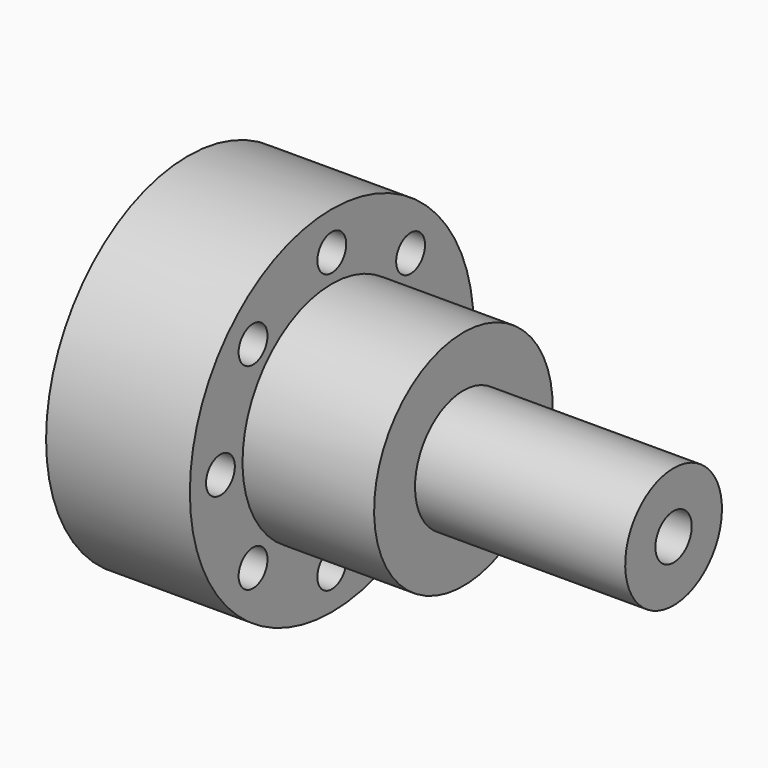
from build123d import *

# Parameters (mm, degrees)
F2_R     = 20.746813
F3_DEPTH = 7.62
F4_R     = 5.02647
F5_DEPTH = 107.404763
F6_R     = 3.988802
F7_DEPTH = 107.404763


with BuildPart() as f1:
    # F0 (on Front) → F1 (revolve)
    with BuildSketch(Plane.XZ):
        Polygon((0, 39.248202), (0, 0), (107.403763, 0), (107.403763, 13.375257), (60.913306, 13.375257), (60.913306, 24.69467), (31.806249, 24.69467), (31.806249, 39.248202), align=None)
    revolve(axis=Axis((53.701881, 0, 0), (-1, 0, 0)))

    # F2 (on face) → F3 (cut)
    with BuildSketch(Plane(origin=(0, 0, 0), x_dir=(0, -1, 0), z_dir=(-1, 0, 0))):
        Circle(F2_R)
    extrude(amount=-F3_DEPTH, mode=Mode.SUBTRACT)

    # F4 (on face) → F5 (cut, through all)
    with BuildSketch(Plane.YZ.offset(107.403763)):
        Circle(F4_R)
    extrude(amount=-F5_DEPTH, mode=Mode.SUBTRACT)

    # F6 (on face) → F7 (cut, through all)
    with BuildSketch(Plane(origin=(0, 0, 0), x_dir=(0, -1, 0), z_dir=(-1, 0, 0))):
        with Locations((0, 30.801583)):
            Circle(F6_R)
        with Locations((-21.780009, 21.780009)):
            Circle(F6_R)
        with Locations((-30.801583, 0)):
            Circle(F6_R)
        with Locations((-21.780009, -21.780009)):
            Circle(F6_R)
        with Locations((0, -30.801583)):
            Circle(F6_R)
        with Locations((21.780009, -21.780009)):
            Circle(F6_R)
        with Locations((30.801583, 0)):
            Circle(F6_R)
        with Locations((21.780009, 21.780009)):
            Circle(F6_R)
    extrude(amount=-F7_DEPTH, mode=Mode.SUBTRACT)


solid = f1.part
